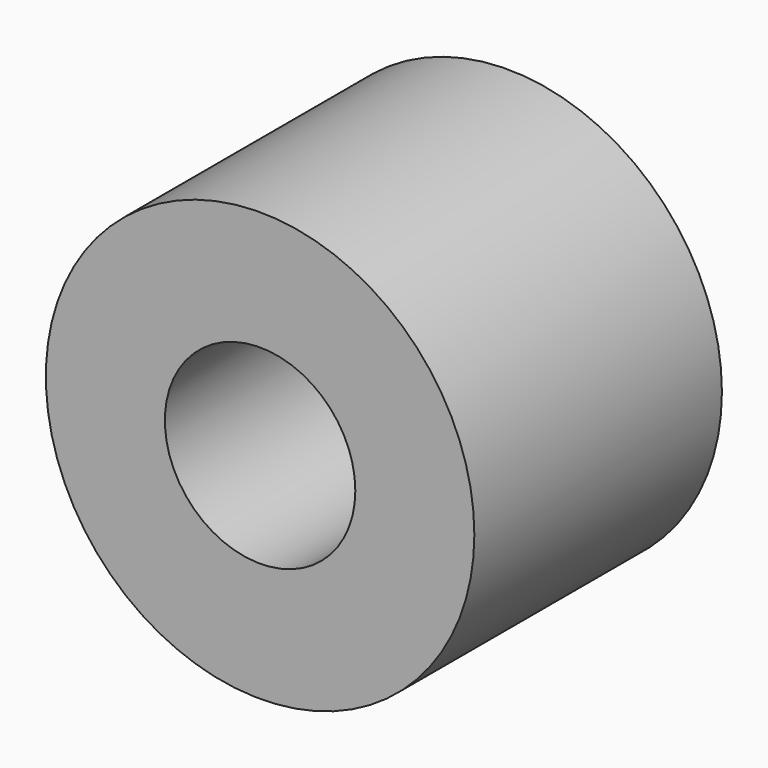
from build123d import *

# Parameters (mm, degrees)
CYLINDER162_R          = 0.4
CYLINDER162_DEPTH      = 1.3
CYLINDER153_R          = 0.9
CYLINDER153_DEPTH      = 1.3
CUT115_PLACEMENT_ANGLE = 90


with BuildPart() as cylinder162:
    # Cylinder162 → Cylinder162 (new body)
    with BuildSketch(Plane.XY):
        Circle(CYLINDER162_R)
    extrude(amount=CYLINDER162_DEPTH)


with BuildPart() as contact:
    # Cylinder153 → Cylinder153 (new body)
    with BuildSketch(Plane.XY):
        Circle(CYLINDER153_R)
    extrude(amount=CYLINDER153_DEPTH)

    # Cut115: cut Cylinder162
    add(cylinder162.part, mode=Mode.SUBTRACT)


with BuildPart() as contact_1:
    # Cut115 placement: moved
    add(contact.part.moved(Location((-7, 1.3, -17))).rotate(Axis((-7, 1.3, -17), (1, 0, 0)), CUT115_PLACEMENT_ANGLE))


solid = contact_1.part
